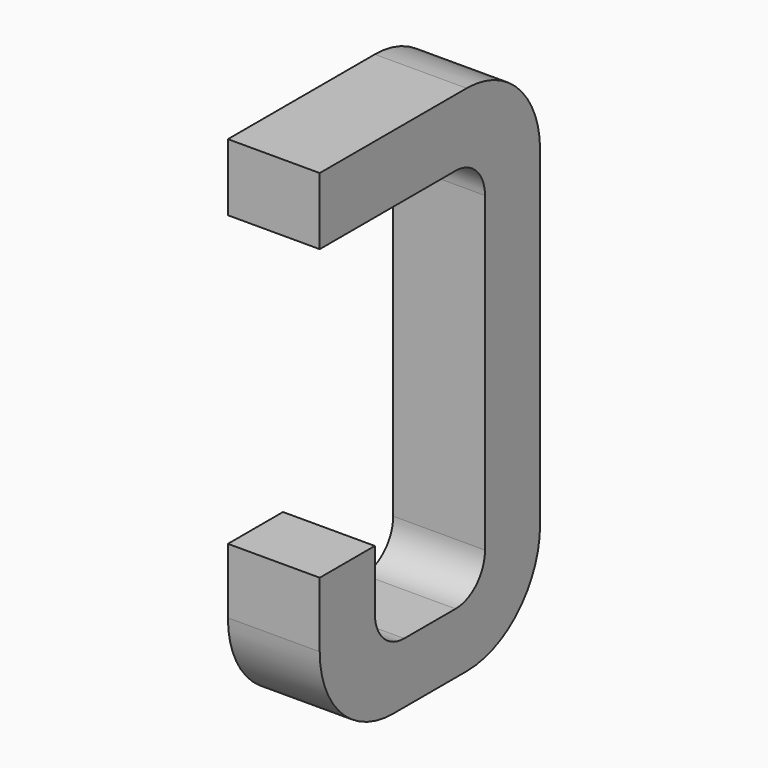
from build123d import *

# Parameters (mm, degrees)
BOX138_W     = 0.5
BOX138_H     = 1.5
BOX138_DEPTH = 2.795
FILLET308_R  = 0.5
FILLET319_R  = 0.5
FILLET305_R  = 0.5
BOX152_W     = 0.75
BOX152_H     = 2.1
BOX152_DEPTH = 1
FILLET299_R  = 0.2
FILLET327_R  = 0.2
FILLET312_R  = 0.2
FILLET298_R  = 0.2
BOX147_W     = 1
BOX147_H     = 1.575
BOX147_DEPTH = 3


with BuildPart() as part:
    # Box138 → Box138 (join)
    with BuildSketch(Plane(origin=(-0.25, 11.125, 0), x_dir=(1, 0, 0), z_dir=(0, 0, 1))):
        with Locations((0.25, 0.75)):
            Rectangle(BOX138_W, BOX138_H)
    extrude(amount=BOX138_DEPTH)

    # Fillet308
    fillet308_edges = [part.edges().sort_by_distance(p)[0] for p in [
        (0, 12.625, 0),
    ]]
    fillet(fillet308_edges, radius=FILLET308_R)

    # Fillet319
    fillet319_edges = [part.edges().sort_by_distance(p)[0] for p in [
        (0, 12.625, 2.795),
    ]]
    fillet(fillet319_edges, radius=FILLET319_R)

    # Fillet305
    fillet305_edges = [part.edges().sort_by_distance(p)[0] for p in [
        (0, 11.125, 0),
    ]]
    fillet(fillet305_edges, radius=FILLET305_R)

    # Box152 → Box152 (cut)
    with BuildSketch(Plane(origin=(-0.5, 11.5, 0.33), x_dir=(0, 1, 0), z_dir=(1, 0, 0))):
        with Locations((0.375, 1.05)):
            Rectangle(BOX152_W, BOX152_H)
    extrude(amount=BOX152_DEPTH, mode=Mode.SUBTRACT)

    # Fillet299
    fillet299_edges = [part.edges().sort_by_distance(p)[0] for p in [
        (0, 11.5, 0.33),
    ]]
    fillet(fillet299_edges, radius=FILLET299_R)

    # Fillet327
    fillet327_edges = [part.edges().sort_by_distance(p)[0] for p in [
        (0, 12.25, 0.33),
    ]]
    fillet(fillet327_edges, radius=FILLET327_R)

    # Fillet312
    fillet312_edges = [part.edges().sort_by_distance(p)[0] for p in [
        (0, 11.5, 2.43),
    ]]
    fillet(fillet312_edges, radius=FILLET312_R)

    # Fillet298
    fillet298_edges = [part.edges().sort_by_distance(p)[0] for p in [
        (0, 12.25, 2.43),
    ]]
    fillet(fillet298_edges, radius=FILLET298_R)

    # Box147 → Box147 (cut)
    with BuildSketch(Plane(origin=(-1, 11, 0.855), x_dir=(0, 1, 0), z_dir=(1, 0, 0))):
        with Locations((0.5, 0.7875)):
            Rectangle(BOX147_W, BOX147_H)
    extrude(amount=BOX147_DEPTH, mode=Mode.SUBTRACT)


with BuildPart() as part_1:
    # Body044 placement: moved
    add(part.part.moved(Location((-2.54, 0, 0))))


solid = part_1.part
